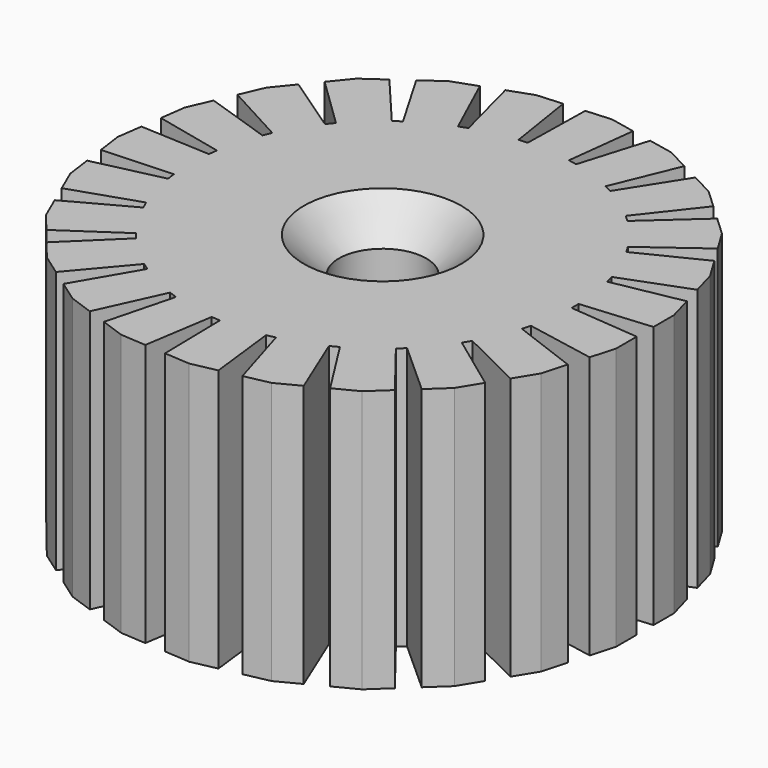
from build123d import *

# Parameters (mm, degrees)
F0_R     = 2.5
F1_DEPTH = 15
F2_R     = 6.5
F3_DEPTH = 3
F4_SIZE  = 2


with BuildPart() as f1:
    # F0 (on Top) → F1 (new body)
    with BuildSketch(Plane.XY):
        Polygon((15, 0.599955), (15, 2.061703), (14.605625, 3.469245), (10.659539, 2.727035), (10.524641, 3.208494), (14.281893, 4.624658), (13.887519, 6.032201), (13.128018, 7.281146), (9.528509, 5.501819), (9.268717, 5.929028), (12.504564, 8.306372), (11.745064, 9.555318), (10.676766, 10.553039), (7.690794, 7.868557), (7.325376, 8.209834), (9.799829, 11.37204), (8.731531, 12.369761), (7.433666, 13.04226), (5.282687, 9.651721), (4.838744, 9.881754), (6.368285, 13.594296), (5.07042, 14.266796), (3.639246, 14.564197), (2.482787, 10.719061), (1.993245, 10.820789), (2.464434, 14.808326), (1.03326, 15.105727), (-0.42508, 15.005974), (-0.501249, 10.991417), (-1.000084, 10.957296), (-1.622192, 14.924089), (-3.080532, 14.824336), (-4.45788, 14.334826), (-3.448111, 10.44859), (-3.919241, 10.28115), (-5.588508, 13.933001), (-6.965856, 13.443492), (-8.16006, 12.60053), (-6.139241, 9.130839), (-6.547726, 8.842499), (-9.14035, 11.908566), (-10.334554, 11.065605), (-11.257045, 9.931711), (-8.375052, 7.135895), (-8.690596, 6.74804), (-12.014294, 9.000928), (-12.936785, 7.867033), (-13.519147, 6.526302), (-9.989724, 4.611715), (-10.188925, 4.153109), (-13.997192, 5.425731), (-14.579554, 4.084999), (-14.778595, 2.636866), (-10.863504, 1.745505), (-10.931587, 1.250162), (-14.941983, 1.448133), (-15.141024, 0), (-14.941983, -1.448133), (-10.931587, -1.250162), (-10.863504, -1.745505), (-14.778595, -2.636866), (-14.579554, -4.084999), (-13.997192, -5.425731), (-10.188925, -4.153109), (-9.989724, -4.611715), (-13.519147, -6.526302), (-12.936785, -7.867033), (-12.014294, -9.000928), (-8.690596, -6.74804), (-8.375052, -7.135895), (-11.257045, -9.931711), (-10.334554, -11.065605), (-9.14035, -11.908566), (-6.547726, -8.842499), (-6.139241, -9.130839), (-8.16006, -12.60053), (-6.965856, -13.443492), (-5.588508, -13.933001), (-3.919241, -10.28115), (-3.448111, -10.44859), (-4.45788, -14.334826), (-3.080532, -14.824336), (-1.622192, -14.924089), (-1.000084, -10.957296), (-0.501249, -10.991417), (-0.42508, -15.005974), (1.03326, -15.105727), (2.464434, -14.808326), (1.993245, -10.820789), (2.482787, -10.719061), (3.639246, -14.564197), (5.07042, -14.266796), (6.368285, -13.594296), (4.838744, -9.881754), (5.282687, -9.651721), (7.433666, -13.04226), (8.731531, -12.369761), (9.799829, -11.37204), (7.325376, -8.209834), (7.690794, -7.868557), (10.676766, -10.553039), (11.745064, -9.555318), (12.504564, -8.306372), (9.268717, -5.929028), (9.528509, -5.501819), (13.128018, -7.281146), (13.887519, -6.032201), (14.281893, -4.624658), (10.524641, -3.208494), (10.659539, -2.727035), (14.605625, -3.469245), (15, -2.061703), (15, -0.599955), (11, -0.25), (11, 0.25), align=None)
        Circle(F0_R, mode=Mode.SUBTRACT)
    extrude(amount=F1_DEPTH)

    # F2 (on face) → F3 (cut)
    with BuildSketch(Plane(origin=(0, 0, 0), x_dir=(1, 0, 0), z_dir=(0, 0, -1))):
        Circle(F2_R)
    extrude(amount=-F3_DEPTH, mode=Mode.SUBTRACT)

    # F4
    f4_edges = [f1.edges().sort_by_distance(p)[0] for p in [
        (-2.5, 0, 15),
    ]]
    chamfer(f4_edges, length=F4_SIZE)


solid = f1.part
